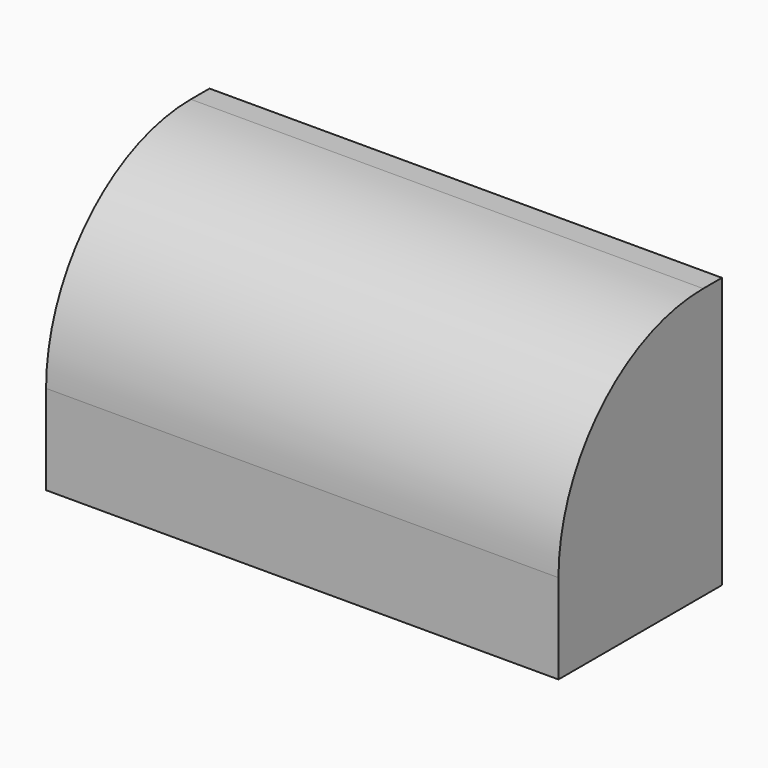
from build123d import *

# Parameters (mm, degrees)
F0_W     = 203.2
F0_H     = 107.303638
F1_DEPTH = 81.026
F2_R     = 71.745599


with BuildPart() as f1:
    # F0 (on Front) → F1 (new body)
    with BuildSketch(Plane.XZ):
        Rectangle(F0_W, F0_H)
    extrude(amount=F1_DEPTH)

    # F2
    f2_edges = [f1.edges().sort_by_distance(p)[0] for p in [
        (0, -81.026, 53.651819),
    ]]
    fillet(f2_edges, radius=F2_R)


solid = f1.part
